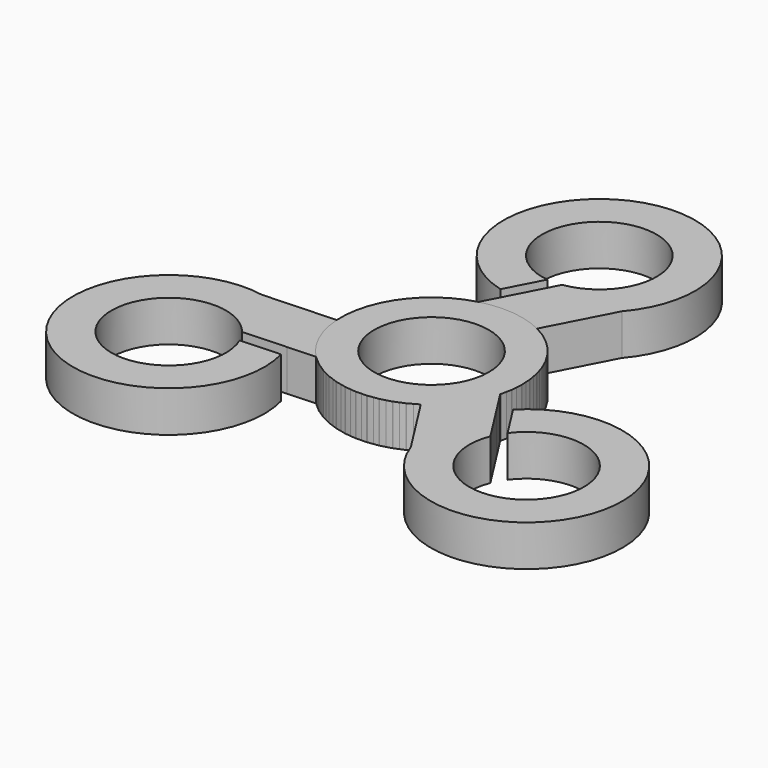
from build123d import *

# Parameters (mm, degrees)
F0_R     = 11.15
F1_DEPTH = 8
F3_COUNT = 3


with BuildPart() as f1:
    # F0 (on Top) → F1 (new body)
    with BuildSketch(Plane.XY):
        with BuildLine():
            ThreePointArc((-4.535445, 17.056346), (-10.75739, -13.991703), (17.649057, 0))
            ThreePointArc((17.649057, 0), (15.020011, 9.267603), (7.916132, 15.774158))
            ThreePointArc((7.916132, 15.774158), (1.807834, 17.556222), (-4.535445, 17.056346))
        make_face()
        Circle(F0_R, mode=Mode.SUBTRACT)
        with BuildLine():
            ThreePointArc((-4.535445, 17.056346), (1.807834, 17.556222), (7.916132, 15.774158))
            Line((7.916132, 15.774158), (14.430822, 28.295009))
            ThreePointArc((14.430822, 28.295009), (-5.20134, 58.273596), (-4.535445, 22.44492))
            Line((-4.535445, 22.44492), (-0.930833, 29.372771))
            ThreePointArc((-0.930833, 29.372771), (0.104239, 51.60359), (1.898025, 29.421097))
            Line((1.898025, 29.421097), (-1.98979, 21.948944))
            Line((-1.98979, 21.948944), (-4.535445, 17.056346))
        make_face()
    extrude(amount=F1_DEPTH)


with BuildPart() as f3_1:
    # F3: instance of F1
    add(f1.part.rotate(Axis((0, 0, 38.323063), (0, 0, 1)), 1 * 360 / F3_COUNT))


with BuildPart() as f3_2:
    # F3: instance of F1
    add(f1.part.rotate(Axis((0, 0, 38.323063), (0, 0, 1)), 2 * 360 / F3_COUNT))


solid = Compound([f1.part, f3_1.part, f3_2.part])
